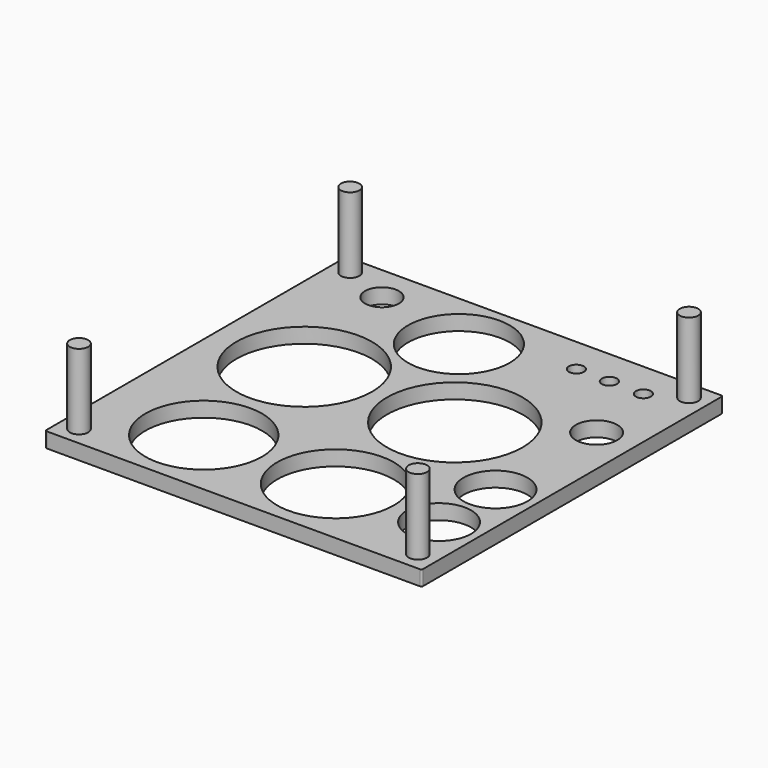
from build123d import *

# Parameters (mm, degrees)
F0_W     = 100
F0_H     = 100
F1_DEPTH = 4
F2_R     = 0.5
F3_R     = 2.45
F4_DEPTH = 20
F5_R     = 4.5
F5_R_2   = 13.5
F5_R_3   = 2
F5_R_4   = 5.5
F5_R_5   = 18
F5_R_6   = 15.5
F5_R_7   = 8.5
F6_DEPTH = 25


with BuildPart() as f1:
    # F0 (on Top) → F1 (new body)
    with BuildSketch(Plane.XY):
        with Locations((-18.745929, -1.397985)):
            Rectangle(F0_W, F0_H)
    extrude(amount=F1_DEPTH)

    # F2
    f2_edges = [f1.edges().sort_by_distance(p)[0] for p in [
        (-68.745929, 48.602015, 2),
        (31.254071, 48.602015, 2),
        (31.254071, -51.397985, 2),
        (-68.745929, -51.397985, 2),
    ]]
    fillet(f2_edges, radius=F2_R)

    # F3 (on face) → F4 (join)
    with BuildSketch(Plane.XY.offset(4)):
        with Locations((-63.745929, 43.602015)):
            Circle(F3_R)
        with Locations((26.254071, 43.602015)):
            Circle(F3_R)
        with Locations((-63.745929, -46.397985)):
            Circle(F3_R)
        with Locations((26.254071, -46.397985)):
            Circle(F3_R)
    extrude(amount=F4_DEPTH)

    # F5 (on face) → F6 (cut)
    with BuildSketch(Plane.XY.offset(4)):
        with Locations((-51.634617, 39.038464)):
            Circle(F5_R)
        with Locations((-26.057692, 32.602015)):
            Circle(F5_R_2)
        with Locations((0, 39.038464)):
            Circle(F5_R_3)
        with Locations((8.75, 39.038464)):
            Circle(F5_R_3)
        with Locations((17.78846, 39.038464)):
            Circle(F5_R_3)
        with Locations((21.057691, 19.423077)):
            Circle(F5_R_4)
        with Locations((-4.745929, 4.602015)):
            Circle(F5_R_5)
        with Locations((-44.745929, 4.602015)):
            Circle(F5_R_5)
        with Locations((-41.826926, -32.397985)):
            Circle(F5_R_6)
        with Locations((-6.826926, -32.397985)):
            Circle(F5_R_6)
        with Locations((20.673078, -13.653847)):
            Circle(F5_R_7)
        with Locations((20.673078, -32.397985)):
            Circle(F5_R_7)
    extrude(amount=-F6_DEPTH, mode=Mode.SUBTRACT)


solid = f1.part
